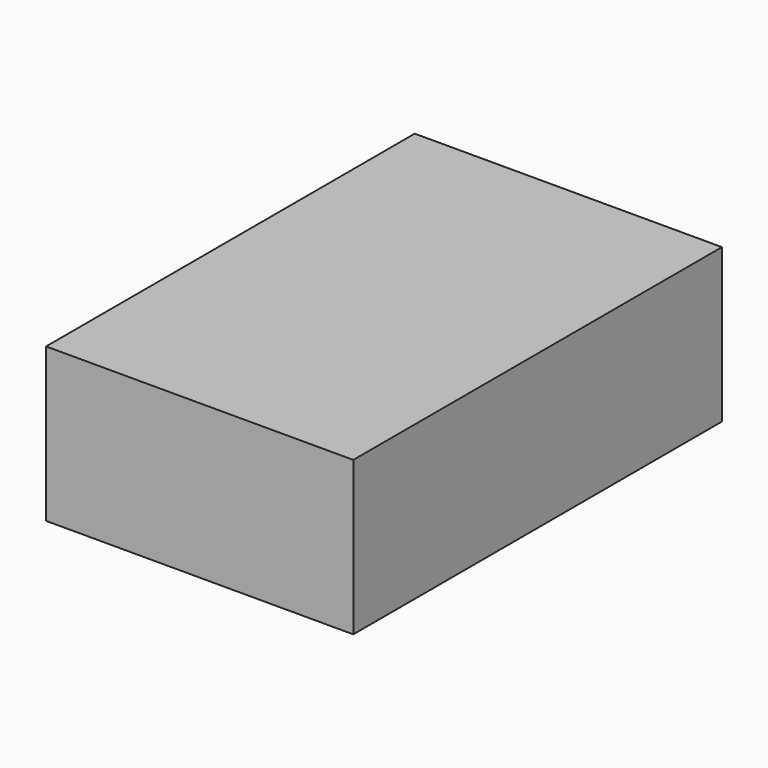
from build123d import *

# Parameters (mm, degrees)
F0_W     = 10
F0_H     = 13
F1_DEPTH = 5
F2_T     = -1.2
F3_W     = 10
F3_H     = 5
F4_DEPTH = 2


with BuildPart() as f1:
    # F0 (on Top) → F1 (new body)
    with BuildSketch(Plane.XY):
        with Locations((2.011857, -5.49226)):
            Rectangle(F0_W, F0_H)
    extrude(amount=F1_DEPTH)

    # F2
    f2_openings = [f1.faces().sort_by_distance(p)[0] for p in [
        (2.011857, -11.99226, 2.5),
    ]]
    offset(amount=F2_T, openings=f2_openings)

    # F3 (on face) → F4 (join)
    with BuildSketch(Plane.XZ.offset(11.99226)):
        with Locations((2.011857, 2.5)):
            Rectangle(F3_W, F3_H)
    extrude(amount=F4_DEPTH)


solid = f1.part
